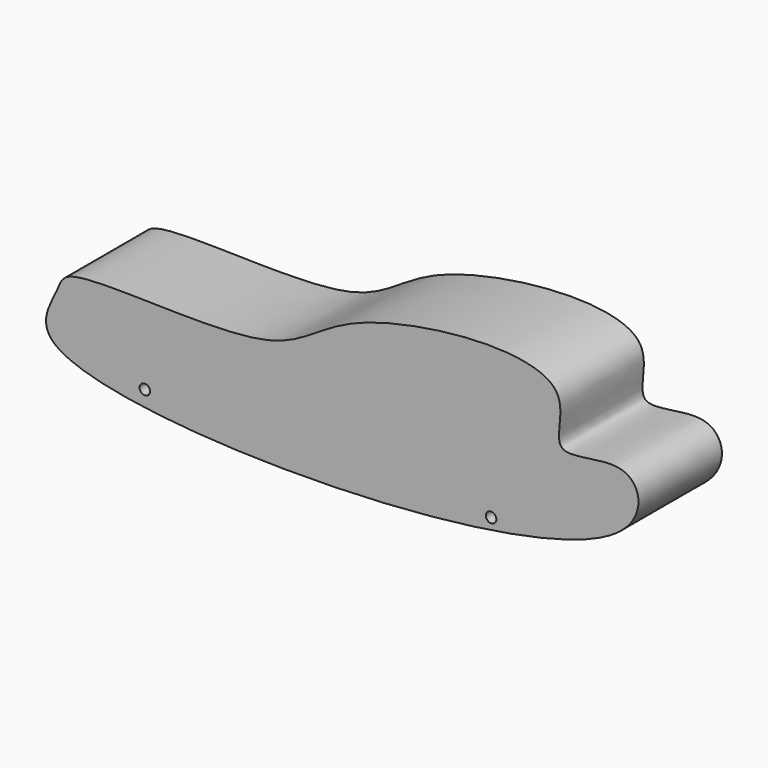
from build123d import *

# Parameters (mm, degrees)
F1_DEPTH = 25.4
F3_D     = 2.54


with BuildPart() as f1:
    # F0 (on Front) → F1 (new body)
    with BuildSketch(Plane.XZ):
        with BuildLine():
            add(Edge.make_bspline(
                [(-64.5716264844, 0), (-63.5536522439, 2.2070107084), (-62.9376299363, 7.729688994), (-7.9927146863, 1.0562722195), (2.8815045906, 20.5563663668), (65.700769367, 27.2459302046), (53.1250086988, 1.3361125238), (76.9623770206, 11.6666075555), (82.1993344908, -23.1722005177), (-79.9728169141, -23.8134053606), (-65.9986383657, -3.093821413), (-64.5716264844, 0)],
                knots=[0, 0, 0, 0, 0.0506141472, 0.1951718269, 0.3030554249, 0.4487105462, 0.5214353754, 0.6037738684, 0.6815496874, 0.9290483133, 1, 1, 1, 1], degree=3))
        make_face()
    extrude(amount=F1_DEPTH)

    # F3 (through all)
    with Locations(Plane.XZ.offset(25.4)):
        with Locations((-43.0395491421, -13.9680551365), (41.2588901818, -13.9680551365)):
            Hole(F3_D / 2)


solid = f1.part
